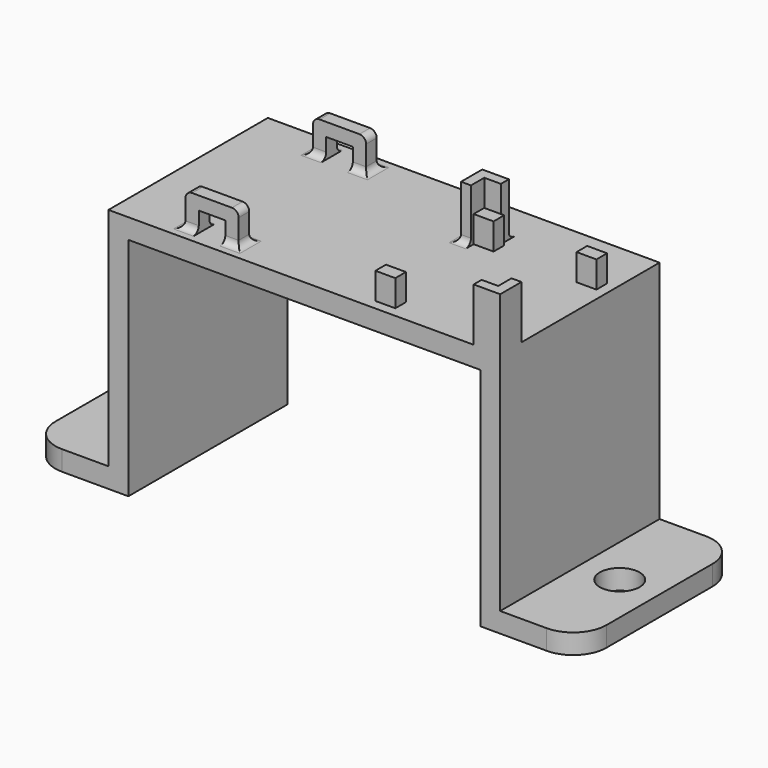
from build123d import *

# Parameters (mm, degrees)
F1_DEPTH  = 30
F2_R      = 3
F3_DEPTH  = 3.001
F5_DEPTH  = 8
F6_W      = 8
F6_H      = 2
F7_DEPTH  = 5
F8_W      = 3
F8_H      = 2
F9_DEPTH  = 4
F10_W     = 4
F10_H     = 3
F11_DEPTH = 28.001
F12_R     = 1
F13_R     = 5


with BuildPart() as f1:
    # F0 (on Front) → F1 (new body)
    with BuildSketch(Plane.XZ):
        Polygon((0, 3), (0, 0), (15, 0), (15, 34), (68, 34), (68, 0), (83, 0), (83, 3), (71, 3), (71, 37), (12, 37), (12, 3), align=None)
    extrude(amount=F1_DEPTH)

    # F2 (on face) → F3 (cut, through all)
    with BuildSketch(Plane.XY.offset(3)):
        with Locations((6, -15)):
            Circle(F2_R)
        with Locations((77, -15)):
            Circle(F2_R)
    extrude(amount=-F3_DEPTH, mode=Mode.SUBTRACT)

    # F4 (on face) → F5 (join)
    with BuildSketch(Plane.XY.offset(37)):
        Polygon((71, -30), (71, -26), (69.5, -26), (69.5, -28.5), (67, -28.5), (67, -30), align=None)
        Polygon((53.5, -6.5), (49.5, -6.5), (49.5, -10.5), (51, -10.5), (51, -8), (53.5, -8), align=None)
    extrude(amount=F5_DEPTH)

    # F6 (on face) → F7 (join)
    with BuildSketch(Plane.XY.offset(37)):
        with Locations((26, -3)):
            Rectangle(F6_W, F6_H)
        with Locations((26, -27)):
            Rectangle(F6_W, F6_H)
    extrude(amount=F7_DEPTH)

    # F8 (on face) → F9 (join)
    with BuildSketch(Plane.XY.offset(37)):
        with Locations((52.5, -9)):
            Rectangle(F8_W, F8_H)
        with Locations((68, -27.5)):
            Rectangle(F8_W, F8_H)
        with Locations((68, -9)):
            Rectangle(F8_W, F8_H)
        with Locations((52.5, -27.5)):
            Rectangle(F8_W, F8_H)
    extrude(amount=F9_DEPTH)

    # F10 (on face) → F11 (cut, through all)
    with BuildSketch(Plane.XZ.offset(28)):
        with Locations((26, 38.5)):
            Rectangle(F10_W, F10_H)
    extrude(amount=-F11_DEPTH, mode=Mode.SUBTRACT)

    # F12
    f12_edges = [f1.edges().sort_by_distance(p)[0] for p in [
        (30, -27, 42),
        (30, -3, 42),
        (22, -3, 42),
        (22, -27, 42),
        (22, -27, 37),
        (22, -3, 37),
        (29, -4, 37),
        (23, -4, 37),
        (30, -3, 37),
        (29, -28, 37),
        (23, -28, 37),
        (30, -27, 37),
        (29, -26, 37),
        (23, -26, 37),
        (29, -2, 37),
        (23, -2, 37),
        (51.5, -6.5, 37),
        (49.5, -8.5, 37),
        (50.25, -10.5, 37),
    ]]
    fillet(f12_edges, radius=F12_R)

    # F13
    f13_edges = [f1.edges().sort_by_distance(p)[0] for p in [
        (83, -30, 1.5),
        (83, 0, 1.5),
        (0, 0, 1.5),
        (0, -30, 1.5),
    ]]
    fillet(f13_edges, radius=F13_R)


solid = f1.part
